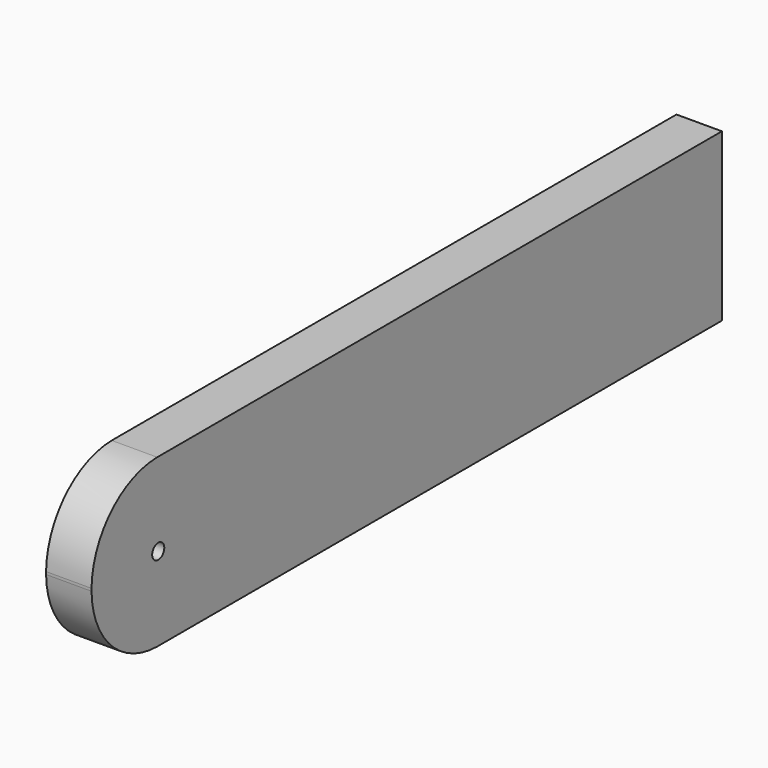
from build123d import *

# Parameters (mm, degrees)
F0_W     = 19.05
F0_H     = 69.85
F1_DEPTH = 330.2
F3_D     = 6.35
F5_DEPTH = 19.051
F6_W     = 25.4
F6_H     = 25.4
F7_DEPTH = 304.8


with BuildPart() as f1:
    # F0 (on Front) → F1 (new body)
    with BuildSketch(Plane.XZ):
        Rectangle(F0_W, F0_H)
    extrude(amount=F1_DEPTH)

    # F3 (through all)
    with Locations(Plane.YZ.offset(9.525)):
        with Locations((-295.275, 0)):
            Hole(F3_D / 2)

    # F4 (on face) → F5 (cut, through all)
    with BuildSketch(Plane.YZ.offset(9.525)):
        with BuildLine():
            Line((-330.2, -34.925), (-295.814604, -34.925))
            ThreePointArc((-295.814604, -34.925), (-319.973652, -24.698652), (-330.2, -0.539604))
            Line((-330.2, -0.539604), (-330.2, -34.925))
        make_face()
        with BuildLine():
            Line((-330.2, 34.925), (-330.2, 0.539604))
            ThreePointArc((-330.2, 0.539604), (-319.973652, 24.698652), (-295.814604, 34.925))
            Line((-295.814604, 34.925), (-330.2, 34.925))
        make_face()
    extrude(amount=-F5_DEPTH, mode=Mode.SUBTRACT)


with BuildPart() as f7:
    # F6 (on Front) → F7 (new body)
    with BuildSketch(Plane.XZ):
        with Locations((72.780613, -13.592582)):
            Rectangle(F6_W, F6_H)
    extrude(amount=F7_DEPTH)


solid = f1.part
